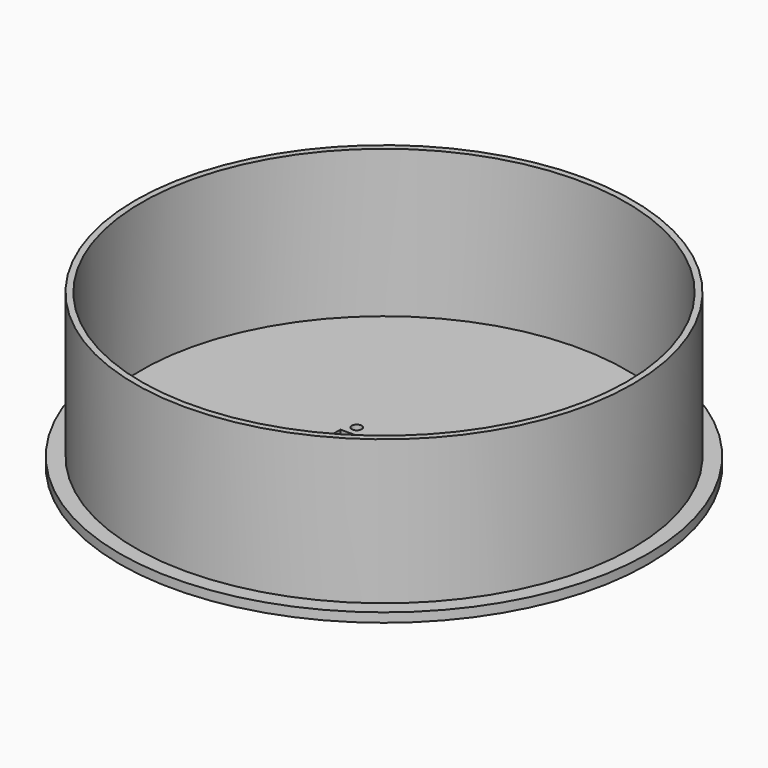
from build123d import *

# Parameters (mm, degrees)
F0_R     = 86
F0_R_2   = 81
F1_DEPTH = 3
F2_DEPTH = 50
F3_T     = -2
F4_R     = 1.6
F4_W     = 38
F4_H     = 14
F5_DEPTH = 2


with BuildPart() as f1:
    # F0 (on Top) → F1 (new body)
    with BuildSketch(Plane.XY):
        Circle(F0_R)
        Circle(F0_R_2, mode=Mode.SUBTRACT)
        Circle(F0_R_2)
    extrude(amount=F1_DEPTH)

    # F0 (on Top) → F2 (join)
    with BuildSketch(Plane.XY):
        Circle(F0_R_2)
    extrude(amount=F2_DEPTH)

    # F3
    f3_openings = [f1.faces().sort_by_distance(p)[0] for p in [
        (0, 0, 50),
    ]]
    offset(amount=F3_T, openings=f3_openings, kind=Kind.INTERSECTION)

    # F4 (on face) → F5 (cut)
    with BuildSketch(Plane(origin=(0, 0, 0), x_dir=(1, 0, 0), z_dir=(0, 0, -1))):
        with Locations((0, 19.0525588833)):
            Circle(F4_R)
        with Locations((0, 0.9737205584)):
            Rectangle(F4_W, F4_H)
        with Locations((16.5, -9.5262794416)):
            Circle(F4_R)
        with Locations((-16.5, -9.5262794416)):
            Circle(F4_R)
    extrude(amount=-F5_DEPTH, mode=Mode.SUBTRACT)


solid = f1.part
